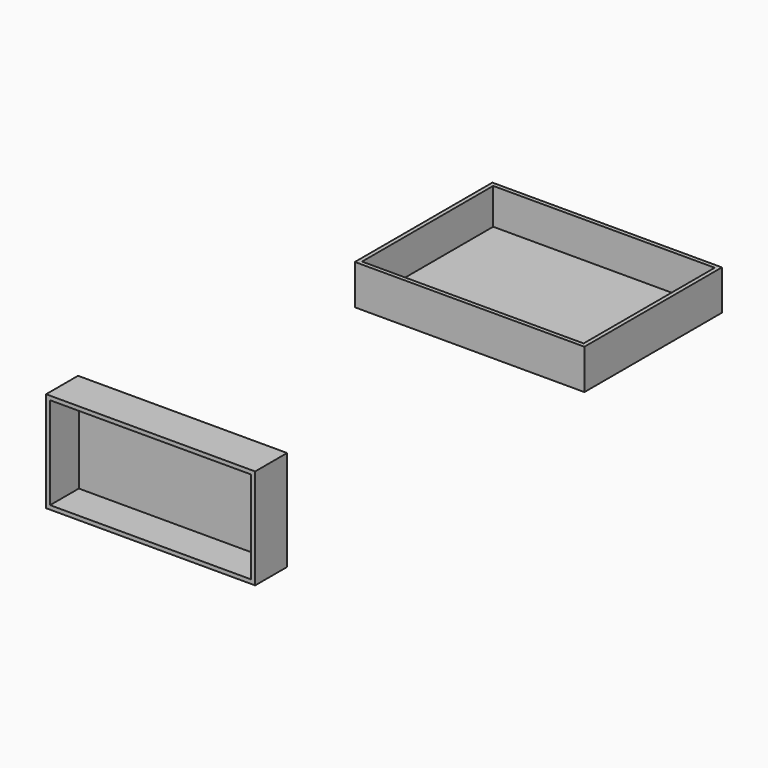
from build123d import *

# Parameters (mm, degrees)
F0_W     = 145.961307
F0_H     = 109.295826
F1_DEPTH = 25.4
F2_T     = -2.54
F3_W     = 132.945449
F3_H     = 63.807495
F4_DEPTH = 25.4
F5_T     = -2.54


with BuildPart() as f1:
    # F0 (on Top) → F1 (new body)
    with BuildSketch(Plane.XY):
        with Locations((1.250756, 39.823735)):
            Rectangle(F0_W, F0_H)
    extrude(amount=F1_DEPTH)

    # F2
    f2_openings = [f1.faces().sort_by_distance(p)[0] for p in [
        (1.250755, 39.823735, 25.4),
    ]]
    offset(amount=F2_T, openings=f2_openings)


with BuildPart() as f4:
    # F3 (on Front) → F4 (new body)
    with BuildSketch(Plane.XZ):
        with Locations((-193.161949, -137.353088)):
            Rectangle(F3_W, F3_H)
    extrude(amount=F4_DEPTH)

    # F5
    f5_openings = [f4.faces().sort_by_distance(p)[0] for p in [
        (-193.16195, -25.4, -137.353089),
    ]]
    offset(amount=F5_T, openings=f5_openings)


solid = Compound([f1.part, f4.part])
